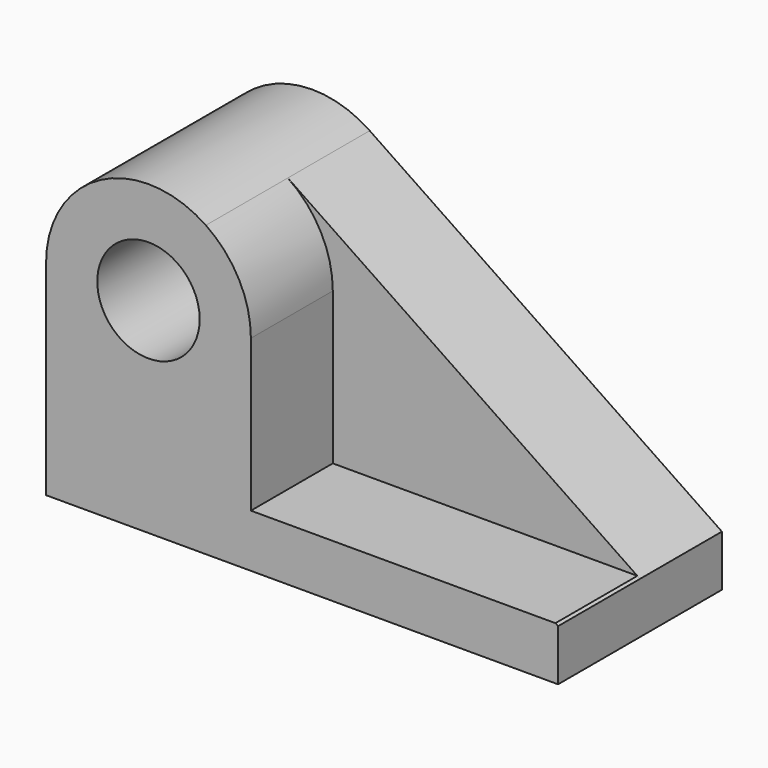
from build123d import *

# Parameters (mm, degrees)
F0_R     = 12.7
F1_DEPTH = 25.4
F2_R     = 12.7
F3_DEPTH = 25.4


with BuildPart() as f1:
    # F0 (on Front) → F1 (new body)
    with BuildSketch(Plane.XZ):
        with BuildLine():
            Line((71.645316, -0.444731), (-15.716811, 58.689598))
            ThreePointArc((-15.716811, 58.689598), (-41.860943, 60.091868), (-55.354684, 37.655269))
            Line((-55.354684, 37.655269), (-55.354684, -13.144731))
            Line((-55.354684, -13.144731), (71.645316, -13.144731))
            Line((71.645316, -13.144731), (71.645316, -0.444731))
        make_face()
        with Locations((-29.954684, 37.655269)):
            Circle(F0_R, mode=Mode.SUBTRACT)
    extrude(amount=F1_DEPTH)

    # F2 (on face) → F3 (join)
    with BuildSketch(Plane.XZ.offset(25.4)):
        with BuildLine():
            Line((-4.554684, 0), (-4.554684, 37.655269))
            ThreePointArc((-4.554684, 37.655269), (-7.518084, 49.561528), (-15.716811, 58.689598))
            ThreePointArc((-15.716811, 58.689598), (-41.860943, 60.091868), (-55.354684, 37.655269))
            Line((-55.354684, 37.655269), (-55.354684, 0))
            Line((-55.354684, 0), (-55.354684, -13.144731))
            Line((-55.354684, -13.144731), (71.645316, -13.144731))
            Line((71.645316, -13.144731), (71.645316, -0.444731))
            Line((71.645316, -0.444731), (70.988293, 0))
            Line((70.988293, 0), (-4.554684, 0))
        make_face()
        with Locations((-29.954684, 37.655269)):
            Circle(F2_R, mode=Mode.SUBTRACT)
    extrude(amount=F3_DEPTH)


solid = f1.part
